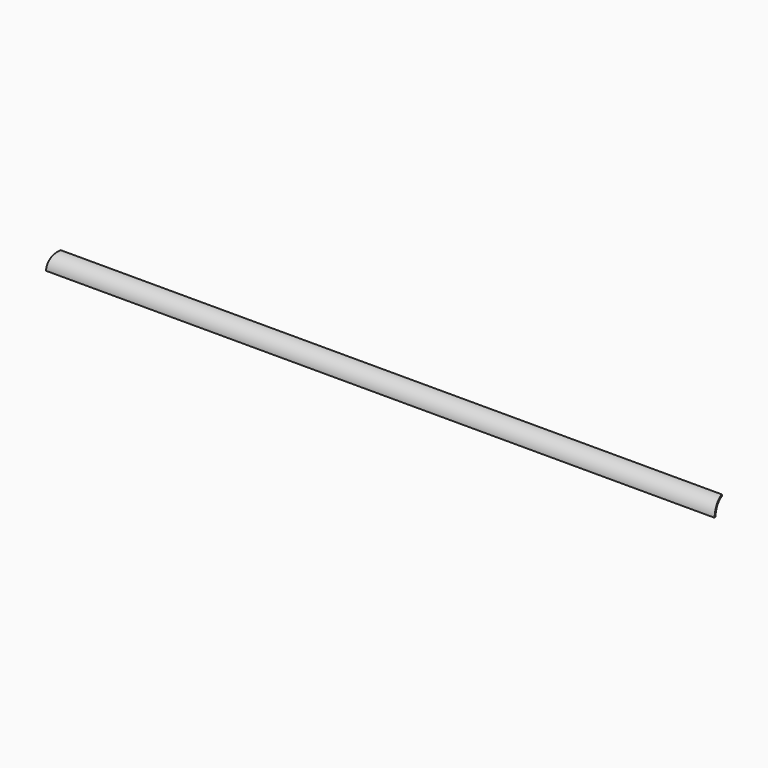
from build123d import *

# Parameters (mm, degrees)
F1_DEPTH = 1232.9414
F3_DEPTH = 25.4


with BuildPart() as f1:
    # F0 (on Right) → F1 (new body)
    with BuildSketch(Plane.YZ):
        with BuildLine():
            ThreePointArc((0, 25.4), (-17.960512, 17.960512), (-25.4, 0))
            Line((-25.4, 0), (-22.225, 0))
            ThreePointArc((-22.225, 0), (-15.715448, 15.715448), (0, 22.225))
            Line((0, 22.225), (0, 25.4))
        make_face()
    extrude(amount=F1_DEPTH)

    # F2 (on Top) → F3 (cut)
    with BuildSketch(Plane.XY):
        Polygon((0, 0), (0, -25.4), (6.867716, 0), align=None)
        Polygon((1232.9414, -25.4), (1232.9414, 0), (1226.073684, 0), align=None)
    extrude(amount=F3_DEPTH, mode=Mode.SUBTRACT)


solid = f1.part
